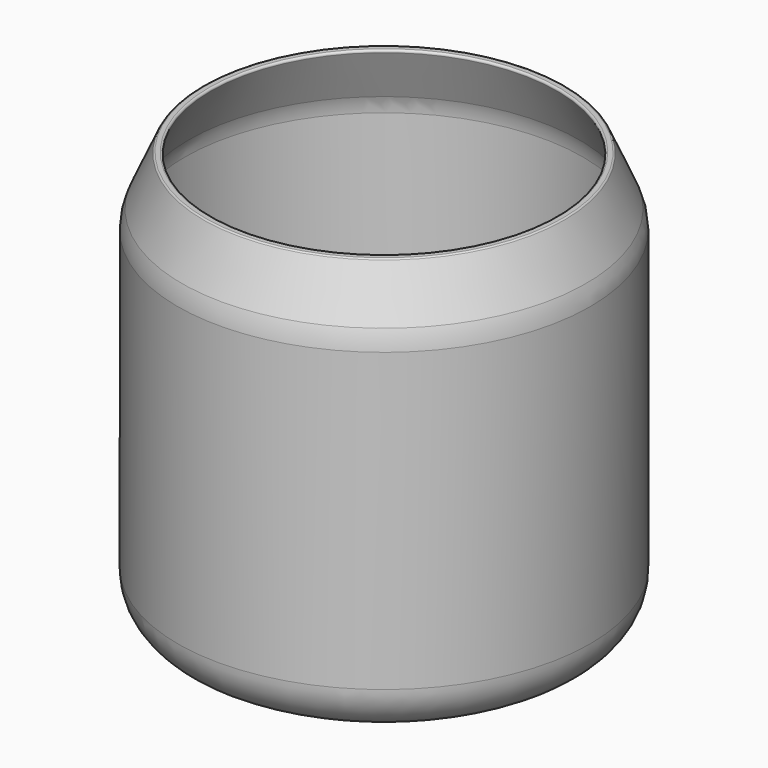
from build123d import *

# Parameters (mm, degrees)
F2_R = 635
F3_T = -101.6
F4_R = 25.4


with BuildPart() as f1:
    # F0 (on Front) → F1 (revolve)
    with BuildSketch(Plane.XZ):
        Polygon((0, 2895.3136389758), (-2438.4, 2895.3136389758), (-2794, 2096.6229621755), (-2794, -2692.6863610242), (0, -2692.6863610242), (0, 0), align=None)
    revolve(axis=Axis((0, 0, 1447.6568194879), (0, 0, -1)))

    # F2
    f2_edges = [f1.edges().sort_by_distance(p)[0] for p in [
        (2794, 0, -2692.686361),
        (2794, 0, 2096.622962),
    ]]
    fillet(f2_edges, radius=F2_R)

    # F3
    f3_openings = [f1.faces().sort_by_distance(p)[0] for p in [
        (0, 0, 2895.313639),
    ]]
    offset(amount=F3_T, openings=f3_openings)

    # F4
    f4_edges = [f1.edges().sort_by_distance(p)[0] for p in [
        (2327.184954, 0, 2895.313639),
        (2438.4, 0, 2895.313639),
    ]]
    fillet(f4_edges, radius=F4_R)


solid = f1.part
